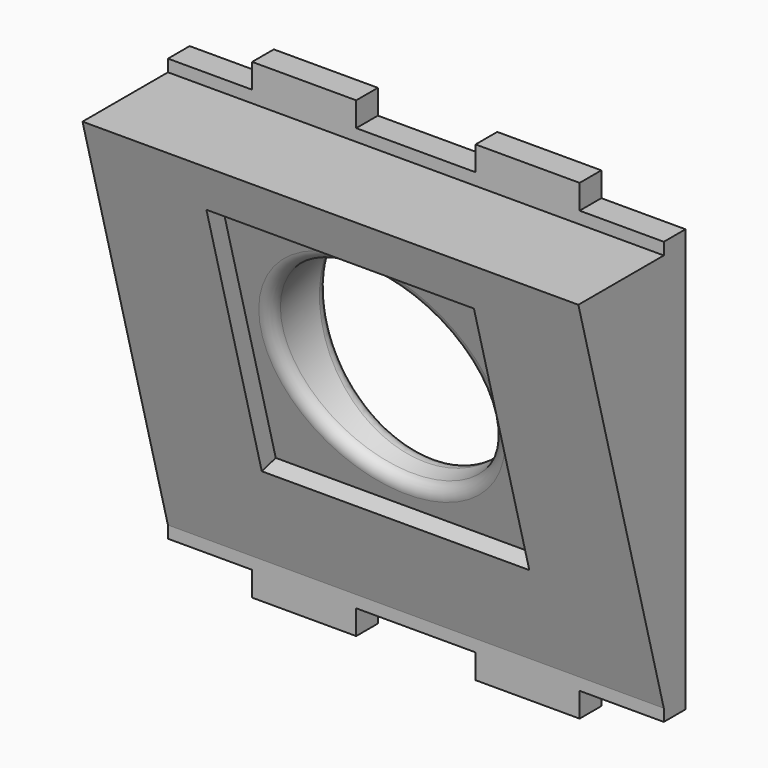
from build123d import *

# Parameters (mm, degrees)
F1_DEPTH = 2.25
F0_W     = 41.148
F0_H     = 33.0774
F2_DEPTH = 15
F5_DEPTH = 50
F7_DEPTH = 11.5201335364
F8_DEPTH = 1.5
F9_R     = 1


with BuildPart() as f1:
    # F0 (on Front) → F1 (new body)
    with BuildSketch(Plane.XZ):
        Polygon((13.589, 17.5387), (13.589, 19.5707), (4.953, 19.5707), (4.953, 17.5387), (-4.953, 17.5387), (-4.953, 19.5707), (-13.589, 19.5707), (-13.589, 17.5387), (-20.574, 17.5387), (-20.574, 16.5387), (20.574, 16.5387), (20.574, 17.5387), align=None)
    extrude(amount=F1_DEPTH)


with BuildPart() as f1b:
    # F0 (on Front) → F1, piece 2 (new body)
    with BuildSketch(Plane.XZ):
        Polygon((20.574, -17.5387), (20.574, -16.5387), (-20.574, -16.5387), (-20.574, -17.5387), (-13.589, -17.5387), (-13.589, -19.5707), (-4.953, -19.5707), (-4.953, -17.5387), (4.953, -17.5387), (4.953, -19.5707), (13.589, -19.5707), (13.589, -17.5387), align=None)
    extrude(amount=F1_DEPTH)


with BuildPart() as f2:
    # F0 (on Front) → F2 (new body)
    with BuildSketch(Plane.XZ):
        Rectangle(F0_W, F0_H)
    extrude(amount=F2_DEPTH)


with BuildPart() as f1_1:
    add(f1.part)

    # F3: union F1b, F2
    add(f1b.part)
    add(f2.part)

    # F4 (on face) → F5 (cut)
    with BuildSketch(Plane.YZ.offset(20.574)):
        Polygon((-15, -16.5387), (-2.25, -16.5387), (-11.1130626177, 16.5387), (-15, 16.5387), align=None)
    extrude(amount=-F5_DEPTH, mode=Mode.SUBTRACT)

    # F6 (on face) → F7 (cut, through all)
    with BuildSketch(Plane(origin=(0, -6.2339535793, -1.6703828272), x_dir=(1, 0, 0), z_dir=(0, -0.9659258263, -0.2588190451))):
        with BuildLine():
            ThreePointArc((9, 3.8514297181), (6.3639610307, 10.2153907488), (0, 12.8514297181))
            ThreePointArc((0, 12.8514297181), (-6.3639610307, -2.5125313125), (9, 3.8514297181))
        make_face()
    extrude(amount=-F7_DEPTH, mode=Mode.SUBTRACT)

    # F6 (on face) → F8 (cut)
    with BuildSketch(Plane(origin=(0, -6.2339535793, -1.6703828272), x_dir=(1, 0, 0), z_dir=(0, -0.9659258263, -0.2588190451))):
        Polygon((11.1, 14.9514297181), (0, 14.9514297181), (-11.1, 14.9514297181), (-11.1, -7.2485702819), (11.1, -7.2485702819), align=None)
        with BuildLine():
            ThreePointArc((9, 3.8514297181), (-6.3639610307, -2.5125313125), (0, 12.8514297181))
            ThreePointArc((0, 12.8514297181), (6.3639610307, 10.2153907488), (9, 3.8514297181))
        make_face(mode=Mode.SUBTRACT)
    extrude(amount=-F8_DEPTH, mode=Mode.SUBTRACT)

    # F9
    f9_edges = [f1_1.edges().sort_by_distance(p)[0] for p in [
        (-9, 0, 3.987295),
        (-9, -5.781888, 2.438041),
    ]]
    fillet(f9_edges, radius=F9_R)


solid = f1_1.part
